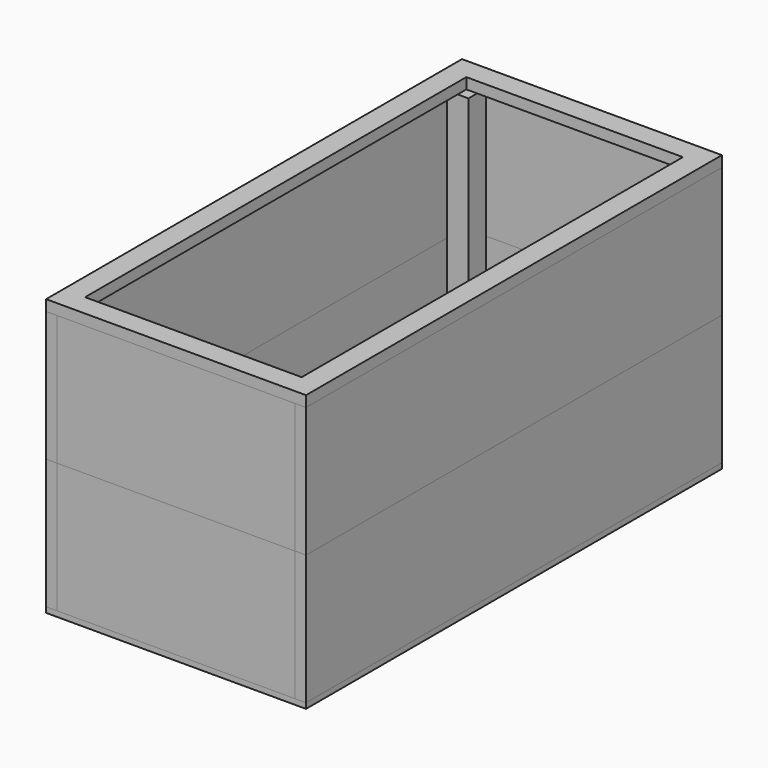
from build123d import *

# Parameters (mm, degrees)
F0_W      = 50.8
F0_H      = 50.8
F1_DEPTH  = 609.6
F2_W      = 558.8
F2_H      = 304.8
F3_DEPTH  = 25.4
F6_W      = 1219.2
F6_H      = 304.8
F7_DEPTH  = 25.4
F10_W     = 609.6
F10_H     = 1219.2
F11_DEPTH = 12.7
F13_W     = 508
F13_H     = 50.8
F14_DEPTH = 25.4


with BuildPart() as f1:
    # F0 (on Top) → F1 (new body)
    with BuildSketch(Plane.XY):
        with Locations((254, -558.8)):
            Rectangle(F0_W, F0_H)
        with Locations((-254, -558.8)):
            Rectangle(F0_W, F0_H)
        with Locations((-254, 558.8)):
            Rectangle(F0_W, F0_H)
        with Locations((254, 558.8)):
            Rectangle(F0_W, F0_H)
    extrude(amount=F1_DEPTH)


with BuildPart() as f3:
    # F2 (on face) → F3 (new body)
    with BuildSketch(Plane.XZ.offset(584.2)):
        with Locations((0, 152.4)):
            Rectangle(F2_W, F2_H)
    extrude(amount=F3_DEPTH)


with BuildPart() as f4_1:
    # F4: instance of F3
    add(f3.part.mirror(Plane(origin=(0, -596.9, 304.8), x_dir=(1, 0, 0), z_dir=(0, 0, 1))))


with BuildPart() as f5_1:
    # F5: instance of F4_1
    add(f4_1.part.mirror(Plane.XZ))


with BuildPart() as f5_2:
    # F5: instance of F3
    add(f3.part.mirror(Plane.XZ))


with BuildPart() as f7:
    # F6 (on face) → F7 (new body)
    with BuildSketch(Plane(origin=(-279.4, 0, 0), x_dir=(0, -1, 0), z_dir=(-1, 0, 0))):
        with Locations((0, 152.4)):
            Rectangle(F6_W, F6_H)
    extrude(amount=F7_DEPTH)


with BuildPart() as f8_1:
    # F8: instance of F7
    add(f7.part.mirror(Plane(origin=(-292.1, 0, 304.8), x_dir=(1, 0, 0), z_dir=(0, 0, 1))))


with BuildPart() as f9_1:
    # F9: instance of F7
    add(f7.part.mirror(Plane.YZ))


with BuildPart() as f9_2:
    # F9: instance of F8_1
    add(f8_1.part.mirror(Plane.YZ))


with BuildPart() as f11:
    # F10 (on face) → F11 (new body)
    with BuildSketch(Plane(origin=(0, 0, 0), x_dir=(1, 0, 0), z_dir=(0, 0, -1))):
        Rectangle(F10_W, F10_H)
    extrude(amount=F11_DEPTH)


with BuildPart() as f14:
    # F13 (on face) → F14 (new body)
    with BuildSketch(Plane.XY.offset(609.6)):
        Polygon((-304.8, 609.6), (-304.8, -609.6), (-254, -609.6), (-254, -558.8), (-254, 558.8), (-254, 609.6), align=None)
        with Locations((0, -584.2)):
            Rectangle(F13_W, F13_H)
        Polygon((254, -558.8), (254, -609.6), (304.8, -609.6), (304.8, 609.6), (254, 609.6), (254, 558.8), align=None)
        with Locations((0, 584.2)):
            Rectangle(F13_W, F13_H)
    extrude(amount=F14_DEPTH)


solid = Compound([f1.part, f3.part, f4_1.part, f5_1.part, f5_2.part, f7.part, f8_1.part, f9_1.part, f9_2.part, f11.part, f14.part])
